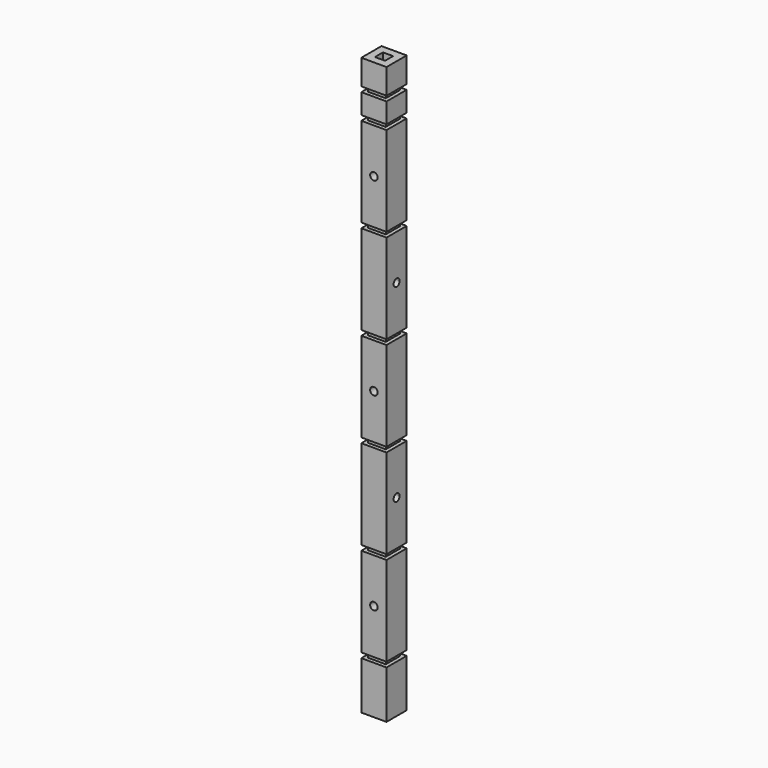
from build123d import *

# Parameters (mm, degrees)
F0_W      = 31.75
F0_H      = 31.75
F1_DEPTH  = 60.33
F2_W      = 22.23
F2_H      = 22.23
F3_DEPTH  = 6.35
F4_W      = 31.75
F4_H      = 31.75
F5_DEPTH  = 112.71
F6_W      = 22.23
F6_H      = 22.23
F7_DEPTH  = 6.35
F8_W      = 31.75
F8_H      = 31.75
F8_W_2    = 22.23
F8_H_2    = 22.23
F9_DEPTH  = 112.71
F10_W     = 22.23
F10_H     = 22.23
F11_DEPTH = 6.35
F12_W     = 31.75
F12_H     = 31.75
F12_W_2   = 22.23
F12_H_2   = 22.23
F13_DEPTH = 112.71
F14_W     = 22.23
F14_H     = 22.23
F15_DEPTH = 6.35
F16_W     = 31.75
F16_H     = 31.75
F17_DEPTH = 112.71
F18_W     = 22.23
F18_H     = 22.23
F19_DEPTH = 6.35
F20_W     = 31.75
F20_H     = 31.75
F20_W_2   = 22.23
F20_H_2   = 22.23
F21_DEPTH = 112.71
F22_W     = 22.23
F22_H     = 22.23
F23_DEPTH = 6.35
F24_W     = 31.75
F24_H     = 31.75
F24_W_2   = 22.23
F24_H_2   = 22.23
F25_DEPTH = 25.4
F26_W     = 22.23
F26_H     = 22.23
F27_DEPTH = 6.35
F28_W     = 31.75
F28_H     = 31.75
F28_W_2   = 22.23
F28_H_2   = 22.23
F29_DEPTH = 31.75
F32_DEPTH = 12.7
F34_DEPTH = 12.7
F36_DEPTH = 12.7
F38_DEPTH = 12.7
F40_DEPTH = 12.7
F41_W     = 12.7
F41_H     = 12.7
F42_DEPTH = 736.6
F43_DEPTH = 6.35


with BuildPart() as f1:
    # F0 (on Top) → F1 (new body)
    with BuildSketch(Plane.XY):
        with Locations((15.875, 15.875)):
            Rectangle(F0_W, F0_H)
    extrude(amount=F1_DEPTH)

    # F2 (on face) → F3 (join)
    with BuildSketch(Plane.XY.offset(60.33)):
        with Locations((15.875, 15.875)):
            Rectangle(F2_W, F2_H)
    extrude(amount=F3_DEPTH)

    # F4 (on face) → F5 (join)
    with BuildSketch(Plane.XY.offset(66.68)):
        with Locations((15.875, 15.875)):
            Rectangle(F4_W, F4_H)
    extrude(amount=F5_DEPTH)

    # F6 (on face) → F7 (join)
    with BuildSketch(Plane.XY.offset(179.39)):
        with Locations((15.875, 15.875)):
            Rectangle(F6_W, F6_H)
    extrude(amount=F7_DEPTH)

    # F8 (on face) → F9 (join)
    with BuildSketch(Plane.XY.offset(185.74)):
        with Locations((15.875, 15.875)):
            Rectangle(F8_W, F8_H)
        with Locations((15.875, 15.875)):
            Rectangle(F8_W_2, F8_H_2, mode=Mode.SUBTRACT)
        with Locations((15.875, 15.875)):
            Rectangle(F8_W_2, F8_H_2)
    extrude(amount=F9_DEPTH)

    # F10 (on face) → F11 (join)
    with BuildSketch(Plane.XY.offset(298.45)):
        with Locations((15.875, 15.875)):
            Rectangle(F10_W, F10_H)
    extrude(amount=F11_DEPTH)

    # F12 (on face) → F13 (join)
    with BuildSketch(Plane.XY.offset(304.8)):
        with Locations((15.875, 15.875)):
            Rectangle(F12_W, F12_H)
        with Locations((15.875, 15.875)):
            Rectangle(F12_W_2, F12_H_2, mode=Mode.SUBTRACT)
        with Locations((15.875, 15.875)):
            Rectangle(F12_W_2, F12_H_2)
    extrude(amount=F13_DEPTH)

    # F14 (on face) → F15 (join)
    with BuildSketch(Plane.XY.offset(417.51)):
        with Locations((15.875, 15.875)):
            Rectangle(F14_W, F14_H)
    extrude(amount=F15_DEPTH)

    # F16 (on face) → F17 (join)
    with BuildSketch(Plane.XY.offset(423.86)):
        with Locations((15.875, 15.875)):
            Rectangle(F16_W, F16_H)
    extrude(amount=F17_DEPTH)

    # F18 (on face) → F19 (join)
    with BuildSketch(Plane.XY.offset(536.57)):
        with Locations((15.875, 15.875)):
            Rectangle(F18_W, F18_H)
    extrude(amount=F19_DEPTH)

    # F20 (on face) → F21 (join)
    with BuildSketch(Plane.XY.offset(542.92)):
        with Locations((15.875, 15.875)):
            Rectangle(F20_W, F20_H)
        with Locations((15.875, 15.875)):
            Rectangle(F20_W_2, F20_H_2, mode=Mode.SUBTRACT)
        with Locations((15.875, 15.875)):
            Rectangle(F20_W_2, F20_H_2)
    extrude(amount=F21_DEPTH)

    # F22 (on face) → F23 (join)
    with BuildSketch(Plane.XY.offset(655.63)):
        with Locations((15.875, 15.875)):
            Rectangle(F22_W, F22_H)
    extrude(amount=F23_DEPTH)

    # F24 (on face) → F25 (join)
    with BuildSketch(Plane.XY.offset(661.98)):
        with Locations((15.875, 15.875)):
            Rectangle(F24_W, F24_H)
        with Locations((15.875, 15.875)):
            Rectangle(F24_W_2, F24_H_2, mode=Mode.SUBTRACT)
        with Locations((15.875, 15.875)):
            Rectangle(F24_W_2, F24_H_2)
    extrude(amount=F25_DEPTH)

    # F26 (on face) → F27 (join)
    with BuildSketch(Plane.XY.offset(687.38)):
        with Locations((15.875, 15.875)):
            Rectangle(F26_W, F26_H)
    extrude(amount=F27_DEPTH)

    # F28 (on face) → F29 (join)
    with BuildSketch(Plane.XY.offset(693.73)):
        with Locations((15.875, 15.875)):
            Rectangle(F28_W, F28_H)
        with Locations((15.875, 15.875)):
            Rectangle(F28_W_2, F28_H_2, mode=Mode.SUBTRACT)
        with Locations((15.875, 15.875)):
            Rectangle(F28_W_2, F28_H_2)
    extrude(amount=F29_DEPTH)

    # F31 (on face) → F32 (cut)
    with BuildSketch(Plane.XZ):
        with BuildLine():
            Line((15.875, 123.035), (20.64, 123.035))
            ThreePointArc((20.64, 123.035), (12.5056361876, 126.4043638124), (15.875, 118.27))
            Line((15.875, 118.27), (15.875, 123.035))
        make_face()
        with BuildLine():
            ThreePointArc((15.875, 118.27), (19.2443638124, 119.6656361876), (20.64, 123.035))
            Line((20.64, 123.035), (15.875, 123.035))
            Line((15.875, 123.035), (15.875, 118.27))
        make_face()
    extrude(amount=-F32_DEPTH, mode=Mode.SUBTRACT)

    # F33 (on face) → F34 (cut)
    with BuildSketch(Plane.YZ.offset(31.75)):
        with BuildLine():
            Line((15.875, 242.095), (20.64, 242.095))
            ThreePointArc((20.64, 242.095), (12.5056361876, 245.4643638124), (15.875, 237.33))
            Line((15.875, 237.33), (15.875, 242.095))
        make_face()
        with BuildLine():
            ThreePointArc((15.875, 237.33), (19.2443638124, 238.7256361876), (20.64, 242.095))
            Line((20.64, 242.095), (15.875, 242.095))
            Line((15.875, 242.095), (15.875, 237.33))
        make_face()
    extrude(amount=-F34_DEPTH, mode=Mode.SUBTRACT)

    # F35 (on face) → F36 (cut)
    with BuildSketch(Plane.XZ):
        with BuildLine():
            Line((15.875, 361.155), (20.64, 361.155))
            ThreePointArc((20.64, 361.155), (12.5056361876, 364.5243638124), (15.875, 356.39))
            Line((15.875, 356.39), (15.875, 361.155))
        make_face()
        with BuildLine():
            ThreePointArc((15.875, 356.39), (19.2443638124, 357.7856361876), (20.64, 361.155))
            Line((20.64, 361.155), (15.875, 361.155))
            Line((15.875, 361.155), (15.875, 356.39))
        make_face()
    extrude(amount=-F36_DEPTH, mode=Mode.SUBTRACT)

    # F37 (on face) → F38 (cut)
    with BuildSketch(Plane.YZ.offset(31.75)):
        with BuildLine():
            Line((15.875, 480.215), (20.64, 480.215))
            ThreePointArc((20.64, 480.215), (12.5056361876, 483.5843638124), (15.875, 475.45))
            Line((15.875, 475.45), (15.875, 480.215))
        make_face()
        with BuildLine():
            ThreePointArc((15.875, 475.45), (19.2443638124, 476.8456361876), (20.64, 480.215))
            Line((20.64, 480.215), (15.875, 480.215))
            Line((15.875, 480.215), (15.875, 475.45))
        make_face()
    extrude(amount=-F38_DEPTH, mode=Mode.SUBTRACT)

    # F39 (on face) → F40 (cut)
    with BuildSketch(Plane.XZ):
        with BuildLine():
            Line((15.875, 599.275), (20.64, 599.275))
            ThreePointArc((20.64, 599.275), (12.5056361876, 602.6443638124), (15.875, 594.51))
            Line((15.875, 594.51), (15.875, 599.275))
        make_face()
        with BuildLine():
            ThreePointArc((15.875, 594.51), (19.2443638124, 595.9056361876), (20.64, 599.275))
            Line((20.64, 599.275), (15.875, 599.275))
            Line((15.875, 599.275), (15.875, 594.51))
        make_face()
    extrude(amount=-F40_DEPTH, mode=Mode.SUBTRACT)

    # F41 (on face) → F42 (cut)
    with BuildSketch(Plane.XY.offset(725.48)):
        with Locations((15.87, 15.87)):
            Rectangle(F41_W, F41_H)
    extrude(amount=-F42_DEPTH, mode=Mode.SUBTRACT)

    # F30 (on face) → F43 (cut)
    with BuildSketch(Plane(origin=(0, 0, 0), x_dir=(1, 0, 0), z_dir=(0, 0, -1))):
        with BuildLine():
            ThreePointArc((6.35, -15.875), (9.1398079092, -22.6101920908), (15.875, -25.4))
            Line((15.875, -25.4), (15.875, -15.875))
            Line((15.875, -15.875), (6.35, -15.875))
        make_face()
        with BuildLine():
            Line((15.875, -15.875), (15.875, -25.4))
            ThreePointArc((15.875, -25.4), (22.6101920908, -22.6101920908), (25.4, -15.875))
            ThreePointArc((25.4, -15.875), (15.875, -6.35), (6.35, -15.875))
            Line((6.35, -15.875), (15.875, -15.875))
        make_face()
    extrude(amount=-F43_DEPTH, mode=Mode.SUBTRACT)


solid = f1.part
